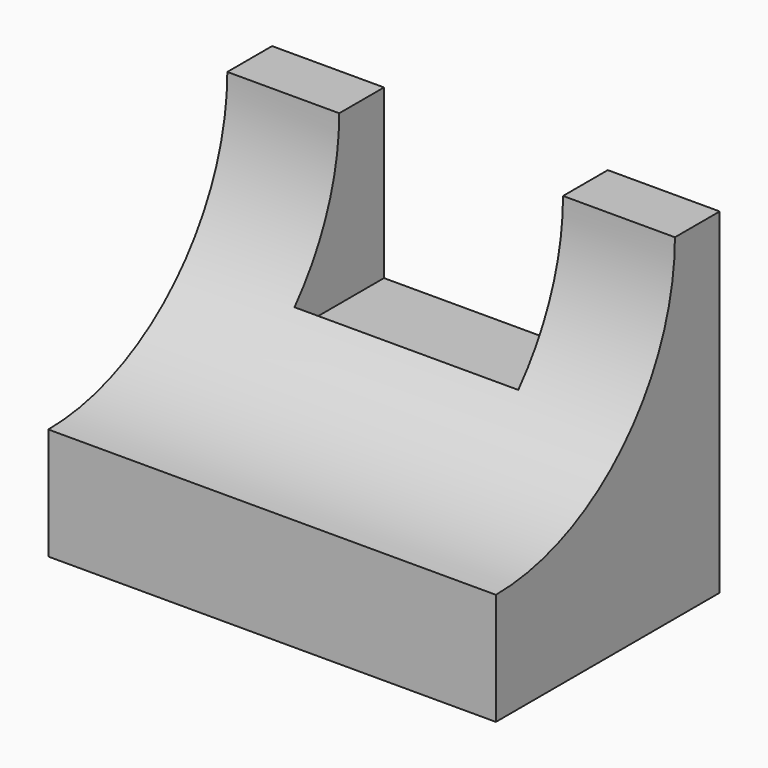
from build123d import *

# Parameters (mm, degrees)
F0_W     = 50.8
F0_H     = 38.1
F1_DEPTH = 31.75
F2_W     = 25.4
F2_H     = 19.05
F3_DEPTH = 12.7
F5_DEPTH = 50.8


with BuildPart() as f1:
    # F0 (on Front) → F1 (new body)
    with BuildSketch(Plane.XZ):
        with Locations((25.4, 19.05)):
            Rectangle(F0_W, F0_H)
    extrude(amount=F1_DEPTH)

    # F2 (on face) → F3 (cut)
    with BuildSketch(Plane(origin=(0, 0, 0), x_dir=(-1, 0, 0), z_dir=(0, 1, 0))):
        with Locations((-25.4, 28.575)):
            Rectangle(F2_W, F2_H)
    extrude(amount=-F3_DEPTH, mode=Mode.SUBTRACT)

    # F4 (on face) → F5 (cut)
    with BuildSketch(Plane.YZ.offset(50.8)):
        with BuildLine():
            Line((-31.75, 38.1), (-6.35, 38.1))
            ThreePointArc((-6.35, 38.1), (-49.710512, 56.060512), (-31.75, 12.7))
            Line((-31.75, 12.7), (-31.75, 38.1))
        make_face()
        with BuildLine():
            ThreePointArc((-31.75, 12.7), (-13.789488, 20.139488), (-6.35, 38.1))
            Line((-6.35, 38.1), (-31.75, 38.1))
            Line((-31.75, 38.1), (-31.75, 12.7))
        make_face()
    extrude(amount=-F5_DEPTH, mode=Mode.SUBTRACT)


solid = f1.part
